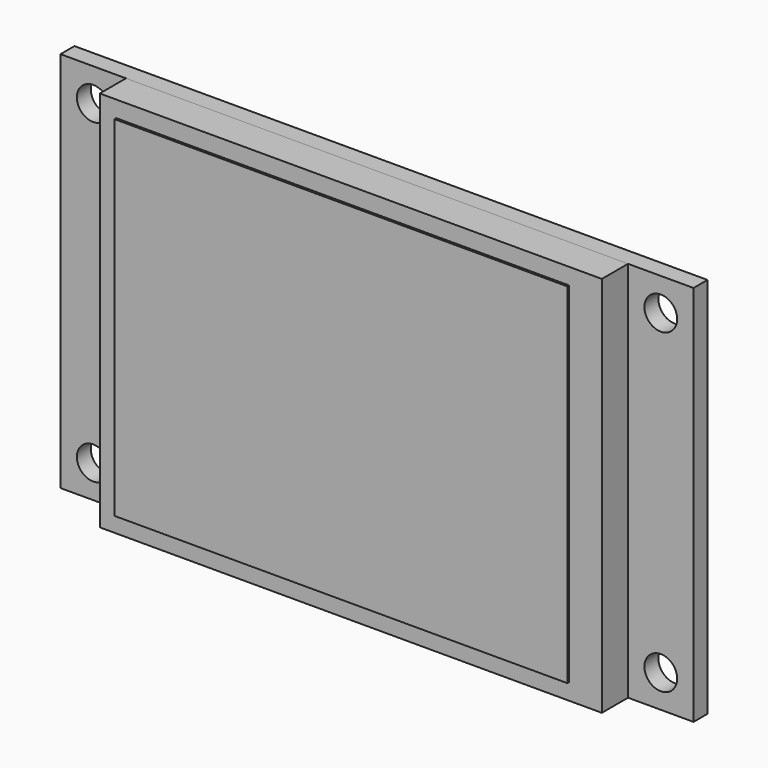
from build123d import *

# Parameters (mm, degrees)
F0_W     = 46
F0_H     = 35
F0_W_2   = 6
F0_R     = 1.5
F0_W_3   = 2.5
F0_H_2   = 20.5
F1_DEPTH = 1.6
F2_DEPTH = 3
F3_DEPTH = 2.5
F4_W     = 41.5
F4_H     = 32
F5_DEPTH = 0.2


with BuildPart() as f1:
    # F0 (on Front) → F1 (new body)
    with BuildSketch(Plane.XZ):
        Rectangle(F0_W, F0_H)
        with Locations((26, 0)):
            Rectangle(F0_W_2, F0_H)
        with Locations((26, -14.5)):
            Circle(F0_R, mode=Mode.SUBTRACT)
        with Locations((26, 14.5)):
            Circle(F0_R, mode=Mode.SUBTRACT)
        with Locations((-26, 0)):
            Rectangle(F0_W_2, F0_H)
        with Locations((-26, -14.5)):
            Circle(F0_R, mode=Mode.SUBTRACT)
        with Locations((-26.5, 0)):
            Rectangle(F0_W_3, F0_H_2, mode=Mode.SUBTRACT)
        with Locations((-26, 14.5)):
            Circle(F0_R, mode=Mode.SUBTRACT)
    extrude(amount=-F1_DEPTH)

    # F0 (on Front) → F3 (join)
    with BuildSketch(Plane.XZ):
        with Locations((-26.5, 0)):
            Rectangle(F0_W_3, F0_H_2)
    extrude(amount=-F3_DEPTH)


with BuildPart() as f2:
    # F0 (on Front) → F2 (new body)
    with BuildSketch(Plane.XZ):
        Rectangle(F0_W, F0_H)
    extrude(amount=F2_DEPTH)


with BuildPart() as f5:
    # F4 (on face) → F5 (new body)
    with BuildSketch(Plane.XZ.offset(3)):
        with Locations((-0.75, 0)):
            Rectangle(F4_W, F4_H)
    extrude(amount=F5_DEPTH)


solid = Compound([f1.part, f2.part, f5.part])
